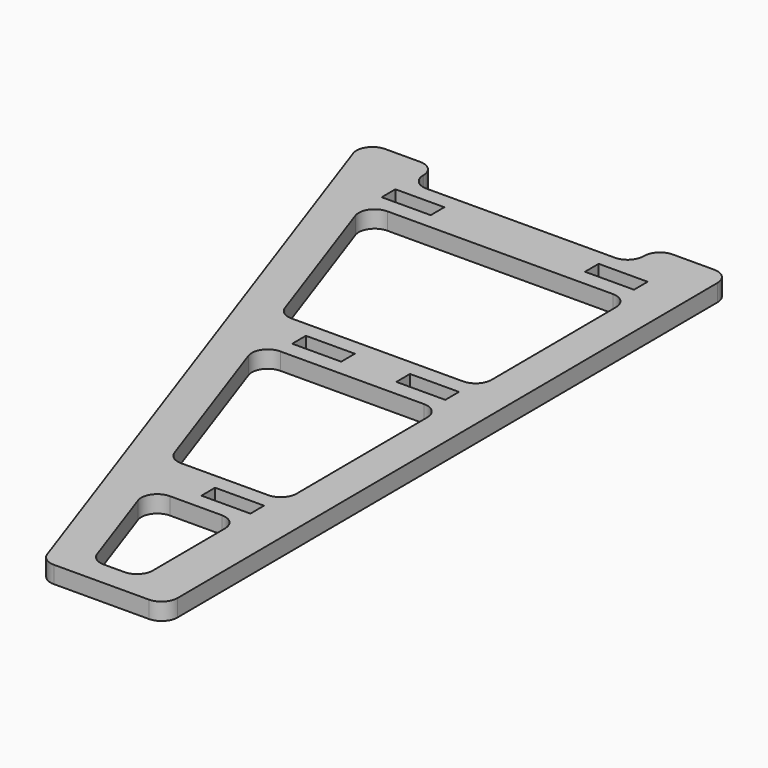
from build123d import *

# Parameters (mm, degrees)
SKETCH_W               = 20
SKETCH_H               = 7
PAD_DEPTH              = 7
FILLET_R               = 6.5
MIRROR_ROLL_ANGLE      = -179.860318
MIRROR_PITCH_ANGLE     = 1.669328
MIRROR_PLACEMENT_ANGLE = 0.337481


with BuildPart() as body:
    # Sketch → Pad (new body)
    with BuildSketch(Plane.XY):
        Polygon((0, 290), (50, 290), (150, 0), (120, 0), (120, 13.2), (30, 13.2), (30, 0), (0, 0), align=None)
        Polygon((15, 210), (15, 130), (89.30566, 130), (61.719453, 210), align=None, mode=Mode.SUBTRACT)
        Polygon((15, 110), (15, 33.2), (122.684971, 33.2), (96.202212, 110), align=None, mode=Mode.SUBTRACT)
        Polygon((18, 280), (18, 230), (54.822902, 230), (37.581522, 280), align=None, mode=Mode.SUBTRACT)
        with Locations((28, 220)):
            Rectangle(SKETCH_W, SKETCH_H, mode=Mode.SUBTRACT)
        with Locations((28, 120)):
            Rectangle(SKETCH_W, SKETCH_H, mode=Mode.SUBTRACT)
        with Locations((70.5, 120)):
            Rectangle(SKETCH_W, SKETCH_H, mode=Mode.SUBTRACT)
        with Locations((28, 23.2)):
            Rectangle(SKETCH_W, SKETCH_H, mode=Mode.SUBTRACT)
        with Locations((111, 23.2)):
            Rectangle(SKETCH_W, SKETCH_H, mode=Mode.SUBTRACT)
    extrude(amount=PAD_DEPTH)

    # Fillet
    fillet_edges = [body.edges().sort_by_distance(p)[0] for p in [
        (0, 0, 3.5),
        (50, 290, 3.5),
        (0, 290, 3.5),
        (150, 0, 3.5),
        (120, 0, 3.5),
        (30, 0, 3.5),
        (61.719453, 210, 3.5),
        (15, 210, 3.5),
        (96.202212, 110, 3.5),
        (15, 110, 3.5),
        (15, 130, 3.5),
        (15, 33.2, 3.5),
        (122.684971, 33.2, 3.5),
        (89.30566, 130, 3.5),
        (30, 13.2, 3.5),
        (120, 13.2, 3.5),
        (18, 280, 3.5),
        (18, 230, 3.5),
        (37.581522, 280, 3.5),
        (54.822902, 230, 3.5),
    ]]
    fillet(fillet_edges, radius=FILLET_R)


with BuildPart() as body_1:
    # Body placement: moved
    add(body.part.moved(Location((-2, 0, 0))))


with BuildPart() as model_body_mirrored:
    # mirror: instance of Body
    add(body_1.part.mirror(Plane(origin=(159.181488, 124.226166, 5.790833), x_dir=(-0.001618, 0.999999, 0), z_dir=(-0.999887, -0.001617, 0.014919))))


with BuildPart() as model_body_mirrored_1:
    # mirror roll: moved
    add(model_body_mirrored.part.rotate(Axis((0, 0, 0), (1, 0, 0)), MIRROR_ROLL_ANGLE))


with BuildPart() as model_body_mirrored_2:
    # mirror pitch: moved
    add(model_body_mirrored_1.part.rotate(Axis((0, 0, 0), (0, 1, 0)), MIRROR_PITCH_ANGLE))


with BuildPart() as model_body_mirrored_3:
    # mirror placement: moved
    add(model_body_mirrored_2.part.moved(Location((-113.201923, 287.892908, 10.586))).rotate(Axis((-113.201923, 287.892908, 10.586), (0, 0, 1)), MIRROR_PLACEMENT_ANGLE))


solid = model_body_mirrored_3.part
